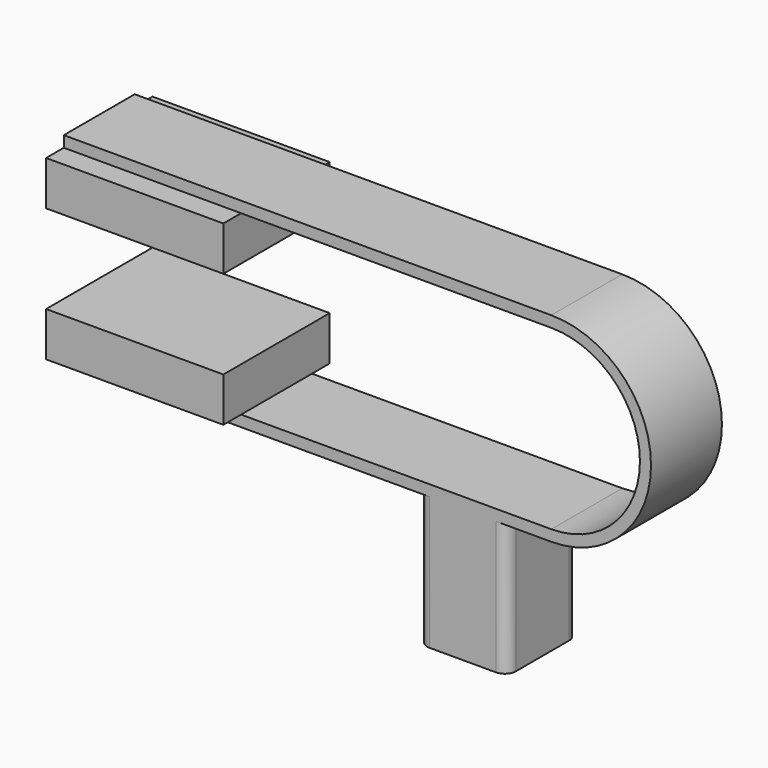
from build123d import *

# Parameters (mm, degrees)
F1_DEPTH = 25.4
F2_W     = 38.1
F2_H     = 12.7
F3_DEPTH = 50.8
F4_W     = 25.4
F4_H     = 25.4
F5_DEPTH = 38.1
F6_R     = 3.175


with BuildPart() as f1:
    # F0 (on Front) → F1 (new body)
    with BuildSketch(Plane.XZ):
        with BuildLine():
            ThreePointArc((0, 25.4), (25.4, 0), (0, -25.4))
            Line((0, -25.4), (-139.7, -25.4))
            Line((-139.7, -25.4), (-139.7, -28.575))
            Line((-139.7, -28.575), (0, -28.575))
            ThreePointArc((0, -28.575), (28.575, 0), (0, 28.575))
            Line((0, 28.575), (-139.7, 28.575))
            Line((-139.7, 28.575), (-139.7, 25.4))
            Line((-139.7, 25.4), (0, 25.4))
        make_face()
    extrude(amount=F1_DEPTH)

    # F2 (on face) → F3 (join)
    with BuildSketch(Plane(origin=(-139.7, 0, 0), x_dir=(0, -1, 0), z_dir=(-1, 0, 0))):
        with Locations((12.7, 19.05)):
            Rectangle(F2_W, F2_H)
        with Locations((12.7, -19.05)):
            Rectangle(F2_W, F2_H)
    extrude(amount=-F3_DEPTH)

    # F4 (on face) → F5 (join)
    with BuildSketch(Plane(origin=(0, 0, -28.575), x_dir=(1, 0, 0), z_dir=(0, 0, -1))):
        with Locations((-25.4, 12.7)):
            Rectangle(F4_W, F4_H)
    extrude(amount=F5_DEPTH)

    # F6
    f6_edges = [f1.edges().sort_by_distance(p)[0] for p in [
        (-38.1, -25.4, -47.625),
        (-38.1, 0, -47.625),
        (-12.7, -25.4, -47.625),
        (-12.7, 0, -47.625),
    ]]
    fillet(f6_edges, radius=F6_R)


solid = f1.part
